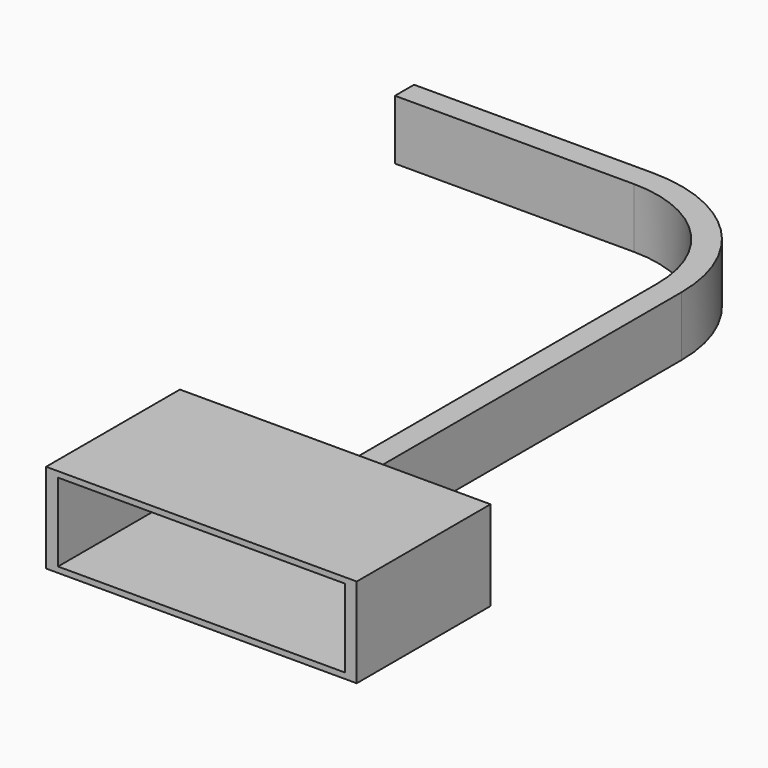
from build123d import *

# Parameters (mm, degrees)
F1_DEPTH = 5
F2_DEPTH = 7.5
F3_W     = 12
F3_H     = 3.275
F4_DEPTH = 13


with BuildPart() as f1:
    # F0 (on Top) → F1 (new body)
    with BuildSketch(Plane.XY):
        with BuildLine():
            Line((-25, 5), (-5, 5))
            Line((-5, 5), (1.6332495807, 5))
            ThreePointArc((1.6332495807, 5), (-1.5358983849, 6.4891252931), (-5, 7))
            Line((-5, 7), (-25, 7))
            Line((-25, 7), (-25, 6))
            Line((-25, 6), (-25, 5))
        make_face()
        with BuildLine():
            Line((1.6332495807, 5), (-5, 5))
            ThreePointArc((-5, 5), (2.0710678119, 2.0710678119), (5, -5))
            Line((5, -5), (5, 1.6332495807))
            ThreePointArc((5, 1.6332495807), (3.4852813742, 3.4852813742), (1.6332495807, 5))
        make_face()
        with BuildLine():
            Line((5, 1.6332495807), (5, -5))
            Line((5, -5), (5, -40))
            Line((5, -40), (6, -40))
            Line((6, -40), (7, -40))
            Line((7, -40), (7, -5))
            ThreePointArc((7, -5), (6.4891252931, -1.5358983849), (5, 1.6332495807))
        make_face()
    extrude(amount=F1_DEPTH)

    # F0 (on Top) → F2 (join)
    with BuildSketch(Plane.XY):
        Polygon((6, -40), (5, -40), (-7, -40), (-7, -54), (6, -54), align=None)
        Polygon((7, -40), (6, -40), (6, -54), (19, -54), (19, -40), align=None)
    extrude(amount=F2_DEPTH)

    # F3 (on face) → F4 (cut)
    with BuildSketch(Plane.XZ.offset(54)):
        with Locations((0, 5.3875)):
            Rectangle(F3_W, F3_H)
        with Locations((12, 5.3875)):
            Rectangle(F3_W, F3_H)
        with Locations((12, 2.1125)):
            Rectangle(F3_W, F3_H)
        with Locations((0, 2.1125)):
            Rectangle(F3_W, F3_H)
    extrude(amount=-F4_DEPTH, mode=Mode.SUBTRACT)


solid = f1.part
